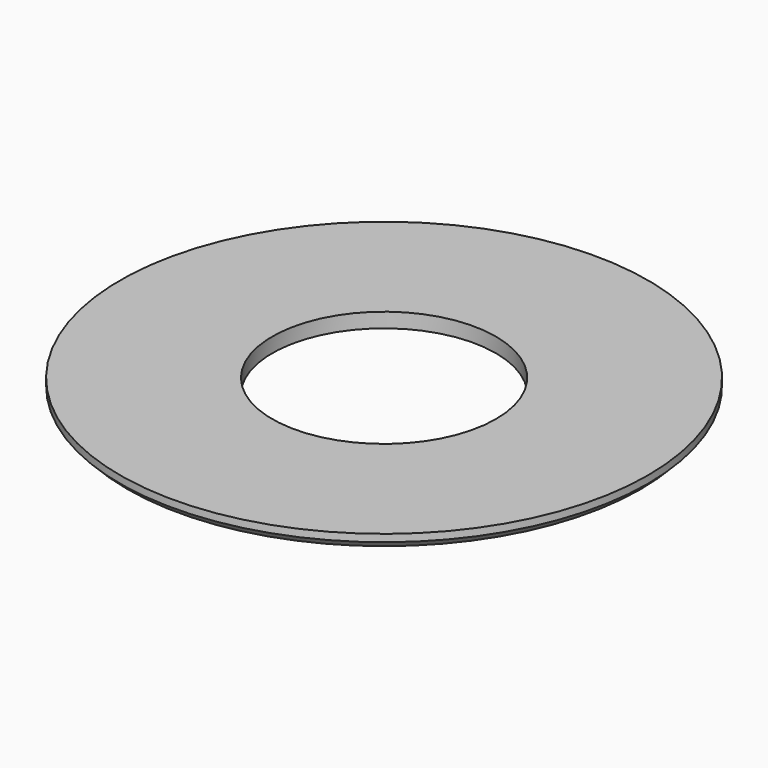
from build123d import *

# Parameters (mm, degrees)
SKETCH_R     = 36
SKETCH_R_2   = 15.25
PAD_DEPTH    = 2
CHAMFER_SIZE = 1


with BuildPart() as part:
    # Sketch → Pad (new body)
    with BuildSketch(Plane.XY):
        Circle(SKETCH_R)
        Circle(SKETCH_R_2, mode=Mode.SUBTRACT)
    extrude(amount=PAD_DEPTH)

    # Chamfer
    chamfer_edges = [part.edges().sort_by_distance(p)[0] for p in [
        (-36, 0, 0),
    ]]
    chamfer(chamfer_edges, length=CHAMFER_SIZE)


solid = part.part
